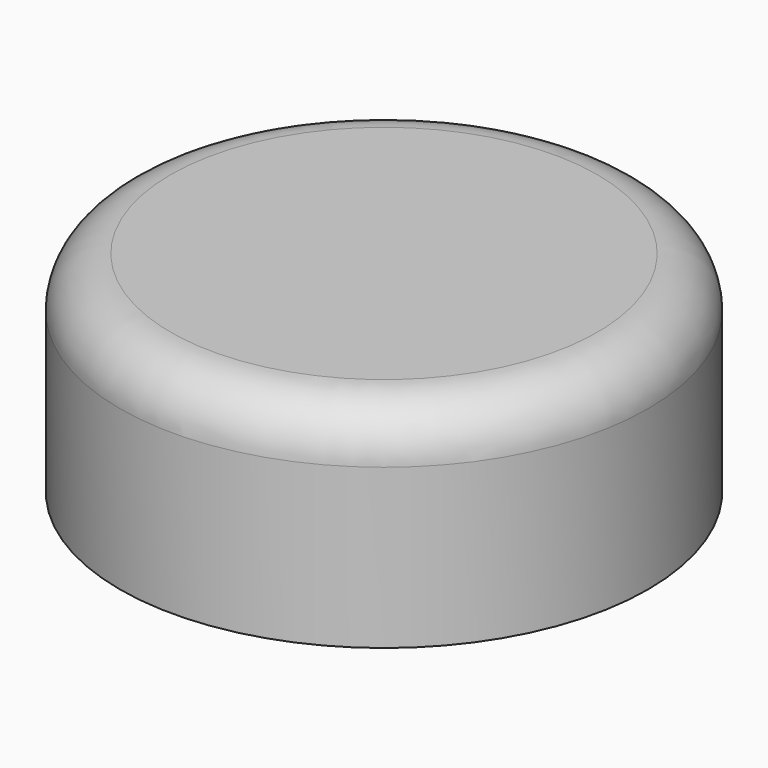
from build123d import *

# Parameters (mm, degrees)
F3_R = 5.31127


with BuildPart() as f2:
    # F0 (on Front) → F2 (revolve)
    with BuildSketch(Plane.XZ):
        with BuildLine():
            ThreePointArc((-18.674849, 3.5), (-12.134661, 14.620192), (0, 19))
            Line((0, 19), (0, 25.460262))
            Line((0, 25.460262), (-27.635925, 25.460262))
            Line((-27.635925, 25.460262), (-27.635925, 3.5))
            Line((-27.635925, 3.5), (-18.674849, 3.5))
        make_face()
    revolve(axis=Axis((0, 0, 18.219968), (0, 0, 1)))

    # F3
    f3_edges = [f2.edges().sort_by_distance(p)[0] for p in [
        (27.635925, 0, 25.460262),
    ]]
    fillet(f3_edges, radius=F3_R)


solid = f2.part
